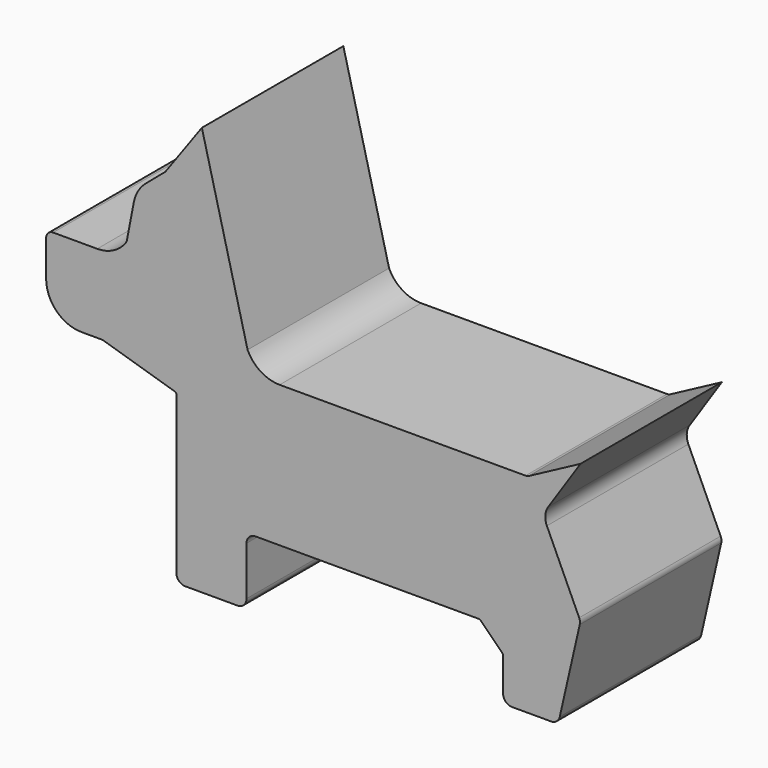
from build123d import *

# Parameters (mm, degrees)
F1_DEPTH = 25


with BuildPart() as f1:
    # F0 (on Front) → F1 (new body)
    with BuildSketch(Plane.XZ):
        with BuildLine():
            Line((-49.272532, 3.535809), (-49.264856, 2.662965))
            Line((-49.264856, 2.662965), (-49.264856, -1.539999))
            ThreePointArc((-49.264856, -1.539999), (-47.80039, -5.075533), (-44.264856, -6.539999))
            Line((-44.264856, -6.539999), (-41.471025, -6.539999))
            ThreePointArc((-41.471025, -6.539999), (-41.284102, -6.55383), (-41.10125, -6.595023))
            Line((-41.10125, -6.595023), (-31.046234, -9.655246))
            ThreePointArc((-31.046234, -9.655246), (-30.916105, -9.747027), (-30.866189, -9.898242))
            Line((-30.866189, -9.898242), (-30.866189, -32.138109))
            ThreePointArc((-30.866189, -32.138109), (-30.494215, -33.036135), (-29.596189, -33.408109))
            Line((-29.596189, -33.408109), (-22.210591, -33.408109))
            ThreePointArc((-22.210591, -33.408109), (-21.312565, -33.036135), (-20.940591, -32.138109))
            Line((-20.940591, -32.138109), (-20.940591, -25.236689))
            ThreePointArc((-20.940591, -25.236689), (-20.568616, -24.338663), (-19.670591, -23.966689))
            Line((-19.670591, -23.966689), (11.941468, -23.966689))
            ThreePointArc((11.941468, -23.966689), (12.038669, -23.986023), (12.121073, -24.041083))
            Line((12.121073, -24.041083), (15.250529, -27.170537))
            ThreePointArc((15.250529, -27.170537), (15.30559, -27.252941), (15.324924, -27.350142))
            Line((15.324924, -27.350142), (15.324924, -32.138109))
            ThreePointArc((15.324924, -32.138109), (15.696899, -33.036135), (16.594924, -33.408109))
            Line((16.594924, -33.408109), (22.106418, -33.408109))
            ThreePointArc((22.106418, -33.408109), (22.898332, -33.13097), (23.344623, -32.420507))
            Line((23.344623, -32.420507), (26.170739, -20.029076))
            ThreePointArc((26.170739, -20.029076), (26.195834, -19.616398), (26.087046, -19.217527))
            Line((26.087046, -19.217527), (21.521712, -9.256797))
            ThreePointArc((21.521712, -9.256797), (21.302195, -8.017566), (21.714248, -6.82841))
            Line((21.714248, -6.82841), (26.266521, 0))
            Line((26.266521, 0), (18.982093, -3.877195))
            ThreePointArc((18.982093, -3.877195), (18.754373, -3.964692), (18.512244, -3.994448))
            Line((18.512244, -3.994448), (-16.260177, -3.994448))
            ThreePointArc((-16.260177, -3.994448), (-18.941781, -3.21452), (-20.786801, -1.118049))
            Line((-20.786801, -1.118049), (-27.24921, 24.422679))
            Line((-27.24921, 24.422679), (-32.410916, 17.262561))
            Line((-32.410916, 17.262561), (-35.199314, 14.887259))
            ThreePointArc((-35.199314, 14.887259), (-36.275691, 13.600715), (-36.865991, 12.030579))
            Line((-36.865991, 12.030579), (-37.883317, 6.771102))
            ThreePointArc((-37.883317, 6.771102), (-39.684279, 5.13623), (-42.043569, 4.544603))
            Line((-42.043569, 4.544603), (-48.272571, 4.544603))
            ThreePointArc((-48.272571, 4.544603), (-48.98278, 4.248594), (-49.272532, 3.535809))
        make_face()
    extrude(amount=F1_DEPTH)


solid = f1.part
